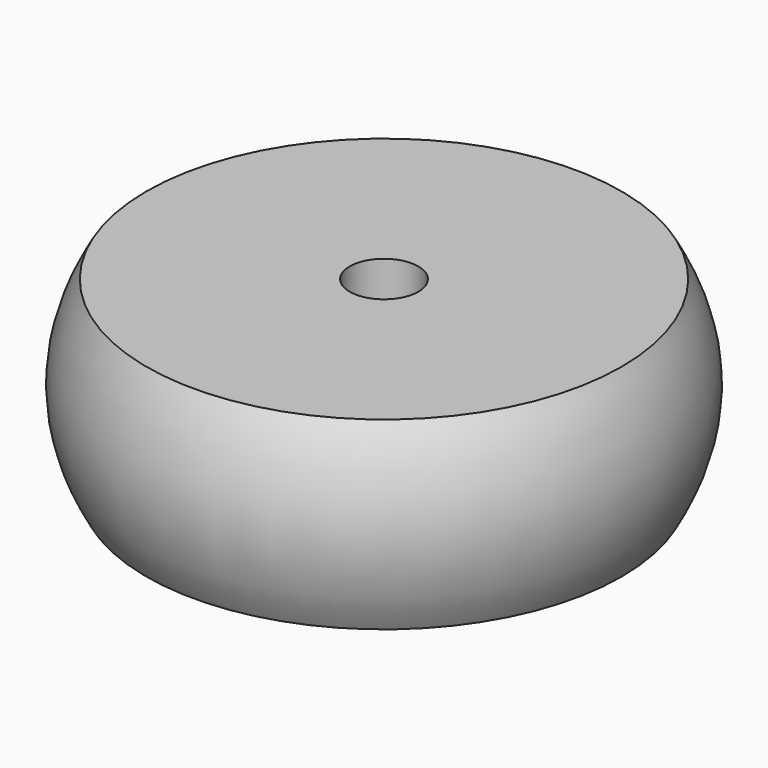
from build123d import *


with BuildPart() as part:
    # Sketch → Revolution (revolve)
    with BuildSketch(Plane.XZ):
        with BuildLine():
            Line((-3.25, 8.75), (-22.5, 8.75))
            add(Edge.make_bspline(
                [(-22.5, 8.75), (-27.5, 0), (-22.5, -8.75)],
                knots=[0, 0, 0, 1, 1, 1], degree=2))
            Line((-22.5, -8.75), (-3.25, -8.75))
            Line((-3.25, -8.75), (-3.25, 8.75))
        make_face()
        with BuildLine():
            add(Edge.make_bspline(
                [(22.5, -8.75), (27.5, 0), (22.5, 8.75)],
                knots=[0, 0, 0, 1, 1, 1], degree=2))
            Line((22.5, 8.75), (3.25, 8.75))
            Line((3.25, 8.75), (3.25, -8.75))
            Line((3.25, -8.75), (22.5, -8.75))
        make_face()
    revolve(axis=Axis((0, 0, 0), (0, 0, 1)))


solid = part.part
